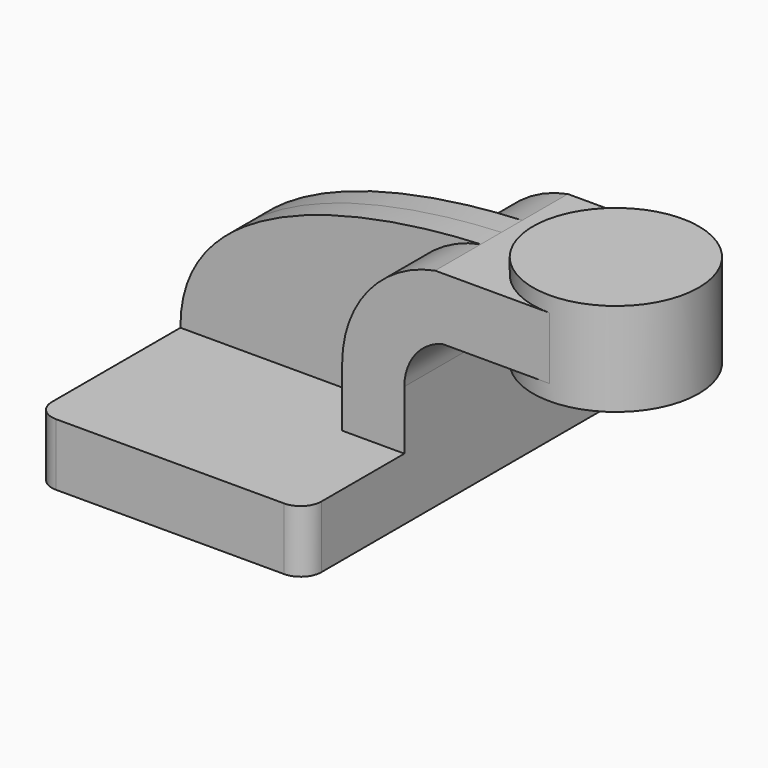
from build123d import *

# Parameters (mm, degrees)
F1_DEPTH  = 63.5
F2_DEPTH  = 25.4
F3_DEPTH  = 7.9375
F4_R      = 6.35
F2_FACE_W = 50.8
F2_FACE_H = 19.05
F5_DEPTH  = 25.4


with BuildPart() as f1:
    # F0 (on Front) → F1 (new body, symmetric)
    with BuildSketch(Plane.XZ):
        Polygon((22.225, 9.525), (-41.275, 9.525), (-41.275, -9.525), (41.275, -9.525), (41.275, 9.525), align=None)
    extrude(amount=F1_DEPTH, both=True)

    # F0 (on Front) → F2 (join, symmetric)
    with BuildSketch(Plane.XZ):
        with BuildLine():
            Line((22.225, 27.602186), (22.225, 9.525))
            Line((22.225, 9.525), (41.275, 9.525))
            Line((41.275, 9.525), (41.275, 27.602186))
            ThreePointArc((41.275, 27.602186), (44.485924, 37.174898), (52.819795, 42.8752))
            Line((52.819795, 42.8752), (60.325, 42.8752))
            Line((60.325, 42.8752), (60.325, 61.9252))
            Line((60.325, 61.9252), (50.693503, 61.9252))
            ThreePointArc((50.693503, 61.9252), (30.268326, 49.898626), (22.225, 27.602186))
        make_face()
    extrude(amount=F2_DEPTH, both=True)

    # F0 (on Front) → F3 (join, symmetric)
    with BuildSketch(Plane.XZ):
        with BuildLine():
            add(Edge.make_bspline(
                [(-41.275, 9.525), (-41.602355, 48.730145), (13.809814, 60.34423), (50.693503, 61.9252)],
                knots=[0, 0, 0, 0, 105.848885, 105.848885, 105.848885, 105.848885], degree=3))
            Line((-41.275, 9.525), (22.225, 9.525))
            Line((22.225, 9.525), (22.225, 27.602186))
            ThreePointArc((22.225, 27.602186), (30.268326, 49.898626), (50.693503, 61.9252))
        make_face()
    extrude(amount=F3_DEPTH, both=True)

    # F4
    f4_edges = [f1.edges().sort_by_distance(p)[0] for p in [
        (41.275, -63.5, 0),
        (-41.275, -63.5, 0),
        (41.275, 63.5, 0),
        (-41.275, 63.5, 0),
    ]]
    fillet(f4_edges, radius=F4_R)

    # F2_face (on face) → F5 (join)
    with BuildSketch(Plane(origin=(60.325, 0, 52.4002), x_dir=(0, 1, 0), z_dir=(1, 0, 0))):
        Rectangle(F2_FACE_W, F2_FACE_H)
    extrude(amount=F5_DEPTH)

    # F0 (on Front) → F6 (revolve)
    with BuildSketch(Plane.XZ):
        Polygon((85.725, 66.675), (85.725, 61.9252), (85.725, 42.8752), (85.725, 38.1), (111.125, 38.1), (111.125, 66.675), align=None)
    revolve(axis=Axis((85.725, 0, 52.3875), (0, 0, -1)))


solid = f1.part
